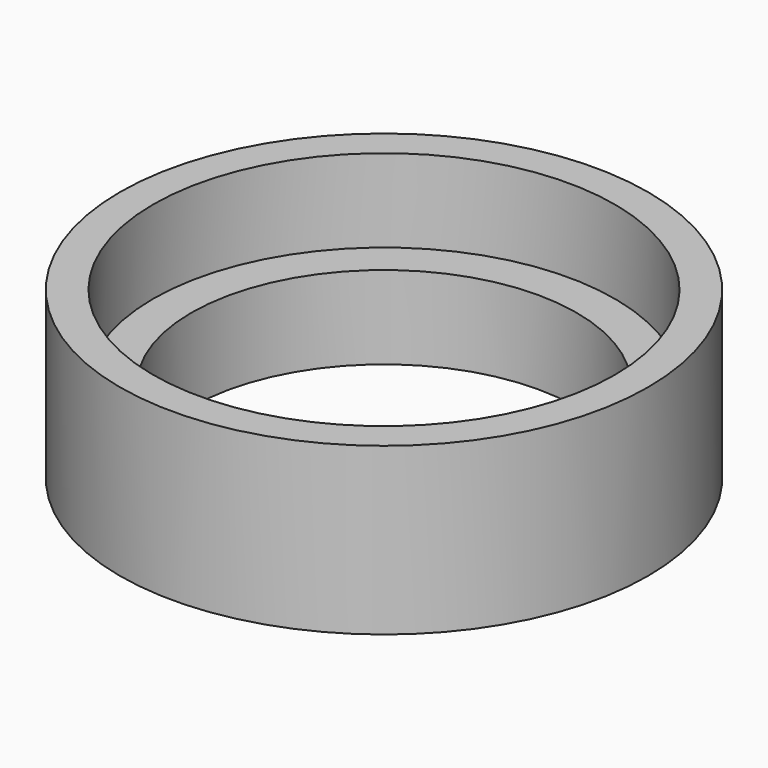
from build123d import *

# Parameters (mm, degrees)
F0_R     = 40.386
F0_R_2   = 35.2933
F0_R_3   = 29.4767
F1_DEPTH = 12.7
F2_DEPTH = 25.4


with BuildPart() as f1:
    # F0 (on Top) → F1 (new body)
    with BuildSketch(Plane.XY):
        Circle(F0_R)
        Circle(F0_R_2, mode=Mode.SUBTRACT)
        Circle(F0_R_2)
        Circle(F0_R_3, mode=Mode.SUBTRACT)
    extrude(amount=F1_DEPTH)

    # F0 (on Top) → F2 (join)
    with BuildSketch(Plane.XY):
        Circle(F0_R)
        Circle(F0_R_2, mode=Mode.SUBTRACT)
    extrude(amount=F2_DEPTH)


solid = f1.part
